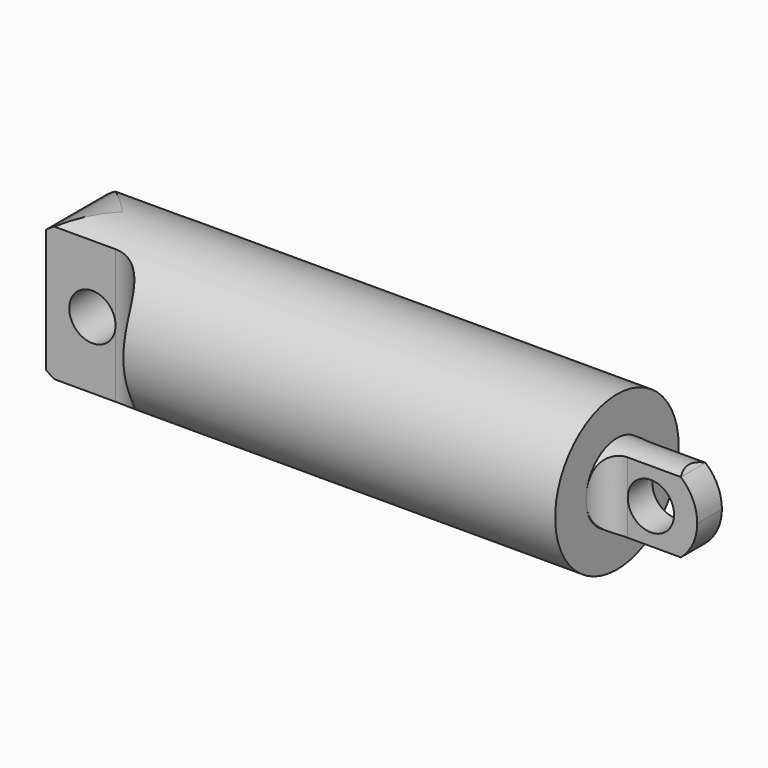
from build123d import *

# Parameters (mm, degrees)
F4_DEPTH      = 5.001
F4_DEPTH_BACK = 5.001
F5_R          = 1.5
F6_DEPTH      = 6.0010001
F8_DEPTH      = 7.4654661941


with BuildPart() as f1:
    # F0 (on Top) → F1 (revolve)
    with BuildSketch(Plane.XY):
        Polygon((20.4253451601, 2.5), (-7.5746548399, 2.5), (-7.5746548399, 0), (26.4253451601, 0), (26.4253451601, 2.5), align=None)
    revolve(axis=Axis((-0.3558665388, 0, 0), (1, 0, 0)))


with BuildPart() as f2:
    # F0 (on Top) → F2 (revolve)
    with BuildSketch(Plane.XY):
        Polygon((-7.5746548399, 0), (-7.5746548399, 2.5), (20.4253451601, 2.5), (20.4253451601, 5), (-14.5746548399, 5), (-14.5746548399, 0), align=None)
    revolve(axis=Axis((-0.3558665388, 0, 0), (1, 0, 0)))


with BuildPart() as f4_tool:
    # F3 (on Top) → F4 (new body, two sides)
    with BuildSketch(Plane.XY) as f4_sk:
        with BuildLine():
            Line((-10.0746548399, -2.4644660941), (-14.5746548399, -2.4644660941))
            Line((-14.5746548399, -2.4644660941), (-14.5746548399, -5))
            Line((-14.5746548399, -5), (-7.539120934, -5))
            ThreePointArc((-7.539120934, -5), (-8.2817616211, -3.2071067812), (-10.0746548399, -2.4644660941))
        make_face()
        with BuildLine():
            Line((-7.539120934, 5), (-14.5746548399, 5))
            Line((-14.5746548399, 5), (-14.5746548399, 2.4644660941))
            Line((-14.5746548399, 2.4644660941), (-10.0746548399, 2.4644660941))
            ThreePointArc((-10.0746548399, 2.4644660941), (-8.2817616211, 3.2071067812), (-7.539120934, 5))
        make_face()
        with BuildLine():
            Line((26.4253451601, -2.5), (26.4253451601, -1))
            Line((26.4253451601, -1), (21.9253451601, -1))
            ThreePointArc((21.9253451601, -1), (20.8646849883, -1.4393398282), (20.4253451601, -2.5))
            Line((20.4253451601, -2.5), (26.4253451601, -2.5))
        make_face()
        with BuildLine():
            Line((21.9253451601, 1), (26.4253451601, 1))
            Line((26.4253451601, 1), (26.4253451601, 2.5))
            Line((26.4253451601, 2.5), (20.4253451601, 2.5))
            ThreePointArc((20.4253451601, 2.5), (20.8646849883, 1.4393398282), (21.9253451601, 1))
        make_face()
    extrude(amount=-F4_DEPTH)
    extrude(f4_sk.sketch, amount=F4_DEPTH_BACK)


with BuildPart() as f1_1:
    add(f1.part)

    # F4: cut by f4_tool
    add(f4_tool.part, mode=Mode.SUBTRACT)

    # F5 (on face) → F6 (cut, through all)
    with BuildSketch(Plane(origin=(0, 1, 0), x_dir=(-1, 0, 0), z_dir=(0, 1, 0))):
        with BuildLine():
            ThreePointArc((-26.4253451601, 0), (-26.1465098941, 1.2630370107), (-25.3618368332, 2.2912878475))
            Line((-25.3618368332, 2.2912878475), (-26.4253451601, 2.2912878475))
            Line((-26.4253451601, 2.2912878475), (-26.4253451601, 0))
        make_face()
        with BuildLine():
            Line((-26.4253451601, 2.2912878475), (-25.3618368332, 2.2912878475))
            ThreePointArc((-25.3618368332, 2.2912878475), (-25.2257740709, 2.399678257), (-25.0836575552, 2.5))
            Line((-25.0836575552, 2.5), (-26.4253451601, 2.5))
            Line((-26.4253451601, 2.5), (-26.4253451601, 2.2912878475))
        make_face()
        with BuildLine():
            Line((-26.4253451601, -2.2912878475), (-25.3618368332, -2.2912878475))
            ThreePointArc((-25.3618368332, -2.2912878475), (-26.1465098941, -1.2630370107), (-26.4253451601, 0))
            Line((-26.4253451601, 0), (-26.4253451601, -2.2912878475))
        make_face()
        with BuildLine():
            ThreePointArc((-25.0836575552, -2.5), (-25.2257740709, -2.399678257), (-25.3618368332, -2.2912878475))
            Line((-25.3618368332, -2.2912878475), (-26.4253451601, -2.2912878475))
            Line((-26.4253451601, -2.2912878475), (-26.4253451601, -2.5))
            Line((-26.4253451601, -2.5), (-25.0836575552, -2.5))
        make_face()
        with Locations((-23.4253451601, 0)):
            Circle(F5_R)
    extrude(amount=-F6_DEPTH, mode=Mode.SUBTRACT)


with BuildPart() as f2_1:
    add(f2.part)

    # F4: cut by f4_tool
    add(f4_tool.part, mode=Mode.SUBTRACT)

    # F7 (on face) → F8 (cut, through all)
    with BuildSketch(Plane(origin=(0, 2.4644660941, 0), x_dir=(-1, 0, 0), z_dir=(0, 1, 0))):
        with BuildLine():
            ThreePointArc((14.5746548399, -4), (14.3125009014, -4.1838019724), (14.039120934, -4.3504490425))
            Line((14.039120934, -4.3504490425), (14.5746548399, -4.3504490425))
            Line((14.5746548399, -4.3504490425), (14.5746548399, -4))
        make_face()
        with BuildLine():
            Line((14.5746548399, -4.3504490425), (14.039120934, -4.3504490425))
            ThreePointArc((14.039120934, -4.3504490425), (12.8489693199, -4.8348859972), (11.5746548399, -5))
            Line((11.5746548399, -5), (14.5746548399, -5))
            Line((14.5746548399, -5), (14.5746548399, -4.3504490425))
        make_face()
        with BuildLine():
            Line((14.5746548399, 4.3504490425), (14.039120934, 4.3504490425))
            ThreePointArc((14.039120934, 4.3504490425), (14.3125009014, 4.1838019724), (14.5746548399, 4))
            Line((14.5746548399, 4), (14.5746548399, 4.3504490425))
        make_face()
        with BuildLine():
            ThreePointArc((11.5746548399, 5), (12.8489693199, 4.8348859972), (14.039120934, 4.3504490425))
            Line((14.039120934, 4.3504490425), (14.5746548399, 4.3504490425))
            Line((14.5746548399, 4.3504490425), (14.5746548399, 5))
            Line((14.5746548399, 5), (11.5746548399, 5))
        make_face()
        with BuildLine():
            ThreePointArc((10.0746548399, 0), (11.5746548399, -1.5), (13.0746548399, 0))
            ThreePointArc((13.0746548399, 0), (11.5746548399, 1.5), (10.0746548399, 0))
        make_face()
    extrude(amount=-F8_DEPTH, mode=Mode.SUBTRACT)


solid = Compound([f1_1.part, f2_1.part])
